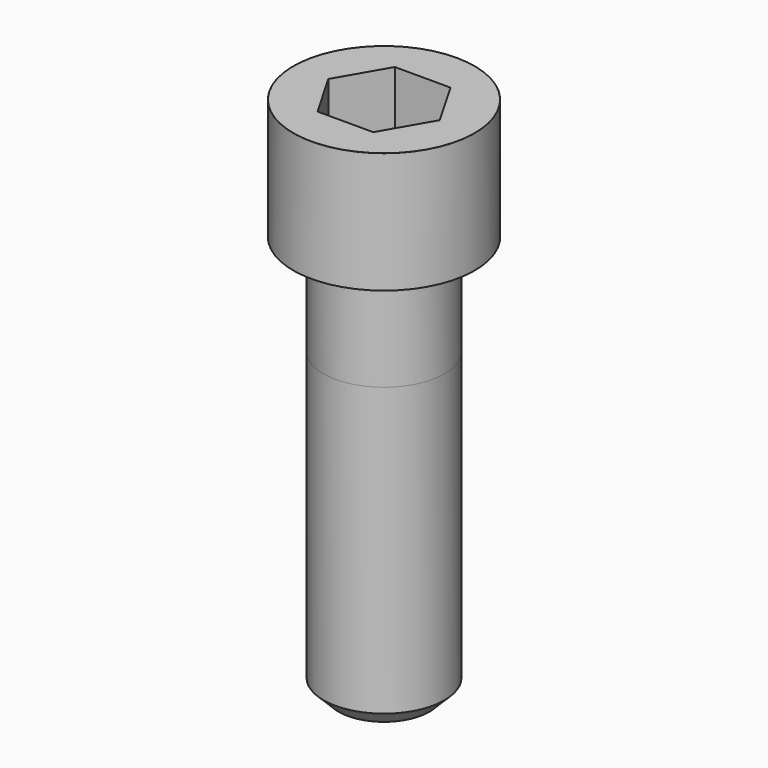
from build123d import *

# Parameters (mm, degrees)
POCKET_DEPTH = 19.15


with BuildPart() as part:
    # Sketch → Revolve (revolve)
    with BuildSketch(Plane.YZ):
        with BuildLine():
            Line((11.999, 0), (18, 0))
            Line((18, 0), (18, 23.97229))
            ThreePointArc((18, 23.97229), (17.991884, 23.991884), (17.97229, 24))
            Line((17.97229, 24), (0, 24))
            Line((0, -80), (0, 24))
            Line((9, -80), (0, -80))
            Line((12, -77), (9, -80))
            Line((12, -20), (12, -77))
            Line((11.999, 0), (12, -20))
        make_face()
    revolve(axis=Axis((0, 0, 0), (0, 0, 1)))

    # Sketch001 → Pocket (cut)
    with BuildSketch(Plane.XY.offset(24)):
        Polygon((11.056258, 0), (5.528129, 9.575), (-5.528129, 9.575), (-11.056258, 0), (-5.528129, -9.575), (5.528129, -9.575), align=None)
    extrude(amount=-POCKET_DEPTH, mode=Mode.SUBTRACT)


solid = part.part
